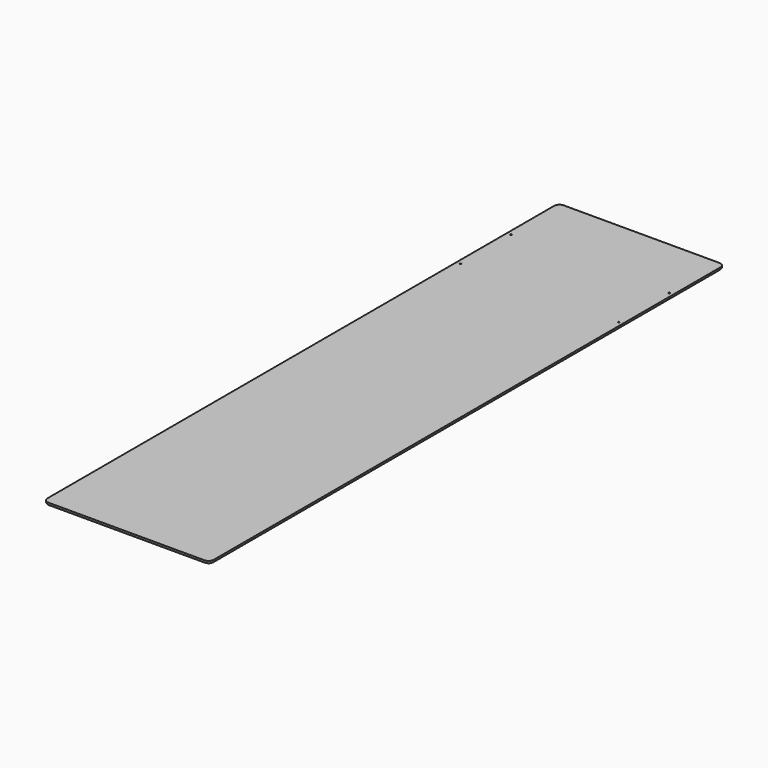
from build123d import *

# Parameters (mm, degrees)
F0_W     = 393.7
F0_H     = 1524
F0_R     = 1.8288
F1_DEPTH = 6.35
F2_R     = 12.7
F3_R     = 3.175


with BuildPart() as f1:
    # F0 (on Top) → F1 (new body)
    with BuildSketch(Plane.XY):
        with Locations((196.85, -762)):
            Rectangle(F0_W, F0_H)
        with Locations((9.525, -301.625)):
            Circle(F0_R, mode=Mode.SUBTRACT)
        with Locations((9.525, -152.4)):
            Circle(F0_R, mode=Mode.SUBTRACT)
        with Locations((384.175, -301.625)):
            Circle(F0_R, mode=Mode.SUBTRACT)
        with Locations((384.175, -152.4)):
            Circle(F0_R, mode=Mode.SUBTRACT)
    extrude(amount=F1_DEPTH)

    # F2
    f2_edges = [f1.edges().sort_by_distance(p)[0] for p in [
        (393.7, -1524, 3.175),
        (0, -1524, 3.175),
        (393.7, 0, 3.175),
        (0, 0, 3.175),
    ]]
    fillet(f2_edges, radius=F2_R)

    # F3
    f3_edges = [f1.edges().sort_by_distance(p)[0] for p in [
        (196.85, 0, 0),
    ]]
    fillet(f3_edges, radius=F3_R)


solid = f1.part
